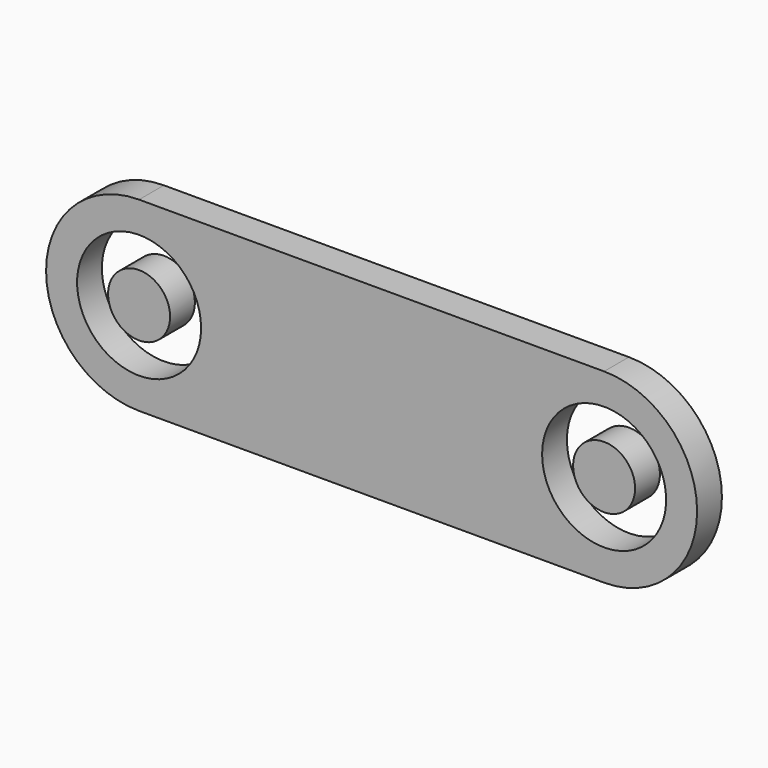
from build123d import *

# Parameters (mm, degrees)
F0_R     = 50.8
F1_DEPTH = 50.8
F0_R_2   = 101.6


with BuildPart() as f1:
    # F0 (on Front) → F1 (new body)
    with BuildSketch(Plane.XZ):
        with Locations((-381, 0)):
            Circle(F0_R)
    extrude(amount=F1_DEPTH)


with BuildPart() as f1b:
    # F0 (on Front) → F1, piece 2 (new body)
    with BuildSketch(Plane.XZ):
        with BuildLine():
            ThreePointArc((-381, -152.4), (-273.2369265472, -107.7630734528), (-228.6, 0))
            ThreePointArc((-228.6, 0), (-273.2369265472, 107.7630734528), (-381, 152.4))
            ThreePointArc((-381, 152.4), (-533.4, 0), (-381, -152.4))
        make_face()
        with Locations((-381, 0)):
            Circle(F0_R_2, mode=Mode.SUBTRACT)
        with BuildLine():
            ThreePointArc((-381, 152.4), (-273.2369265472, 107.7630734528), (-228.6, 0))
            ThreePointArc((-228.6, 0), (-273.2369265472, -107.7630734528), (-381, -152.4))
            Line((-381, -152.4), (0, -152.4))
            Line((0, -152.4), (0, 152.4))
            Line((0, 152.4), (-381, 152.4))
        make_face()
    extrude(amount=F1_DEPTH)

    # F2: F1b, F1 across face


with BuildPart() as f1b_1:
    add(f1b.part)
    add(f1b.part.mirror(Plane(origin=(0, -25.4, 0), x_dir=(0, 1, 0), z_dir=(1, 0, 0))))
    add(f1.part.mirror(Plane(origin=(0, -25.4, 0), x_dir=(0, 1, 0), z_dir=(1, 0, 0))))


solid = Compound([f1.part, f1b_1.part])
